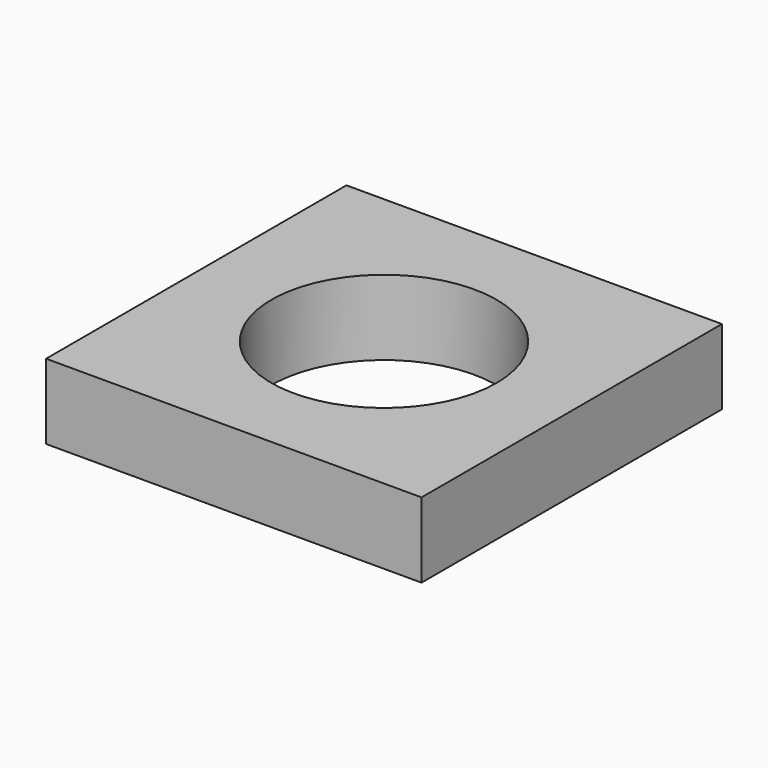
from build123d import *

# Parameters (mm, degrees)
CYLINDER_R     = 15
CYLINDER_DEPTH = 40
BOX_W          = 50
BOX_H          = 50
BOX_DEPTH      = 10


with BuildPart() as cylinder:
    # Cylinder → Cylinder (new body)
    with BuildSketch(Plane(origin=(25, 25, -12), x_dir=(1, 0, 0), z_dir=(0, 0, 1))):
        Circle(CYLINDER_R)
    extrude(amount=CYLINDER_DEPTH)


with BuildPart() as cut001:
    # Box → Box (new body)
    with BuildSketch(Plane.XY):
        with Locations((25, 25)):
            Rectangle(BOX_W, BOX_H)
    extrude(amount=BOX_DEPTH)

    # Cut001: cut Cylinder
    add(cylinder.part, mode=Mode.SUBTRACT)


solid = cut001.part
